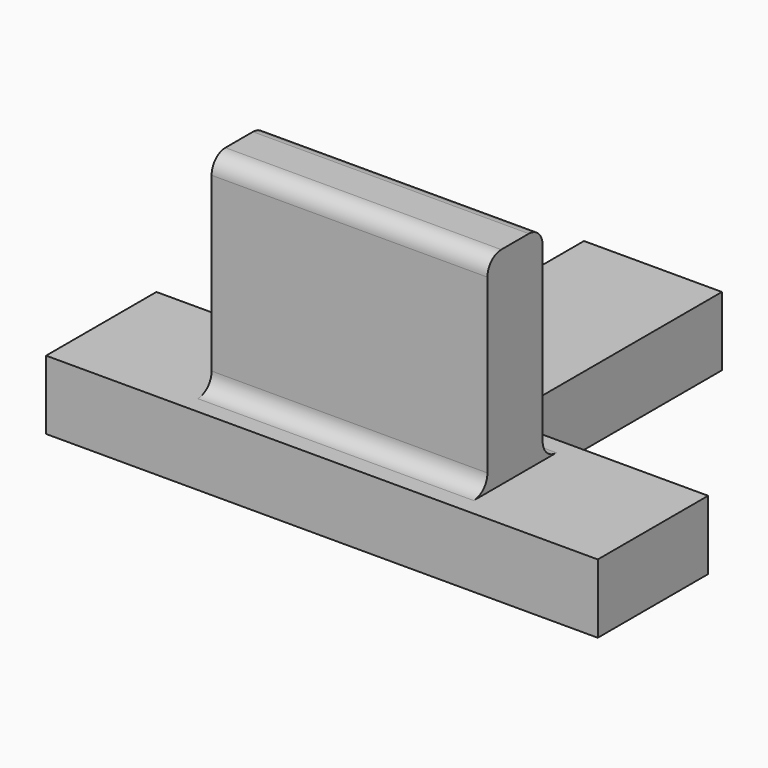
from build123d import *

# Parameters (mm, degrees)
F0_W     = 12.7
F0_H     = 3.175
F0_W_2   = 6.35
F0_H_2   = 12.7
F1_DEPTH = 3.175
F2_DEPTH = 9.525
F3_R     = 0.79375


with BuildPart() as f1:
    # F0 (on Top) → F1 (new body)
    with BuildSketch(Plane.XY):
        Polygon((-3.175, 0), (-12.7, 0), (-12.7, -6.35), (12.7, -6.35), (12.7, 0), (3.175, 0), align=None)
        with Locations((0, -3.175)):
            Rectangle(F0_W, F0_H, mode=Mode.SUBTRACT)
        with Locations((0, -3.175)):
            Rectangle(F0_W, F0_H)
        with Locations((0, 6.35)):
            Rectangle(F0_W_2, F0_H_2)
    extrude(amount=-F1_DEPTH)

    # F0 (on Top) → F2 (join)
    with BuildSketch(Plane.XY):
        with Locations((0, -3.175)):
            Rectangle(F0_W, F0_H)
    extrude(amount=F2_DEPTH)

    # F3
    f3_edges = [f1.edges().sort_by_distance(p)[0] for p in [
        (0, -4.7625, 9.525),
        (0, -1.5875, 9.525),
        (0, -1.5875, 0),
        (0, -4.7625, 0),
    ]]
    fillet(f3_edges, radius=F3_R)


solid = f1.part
